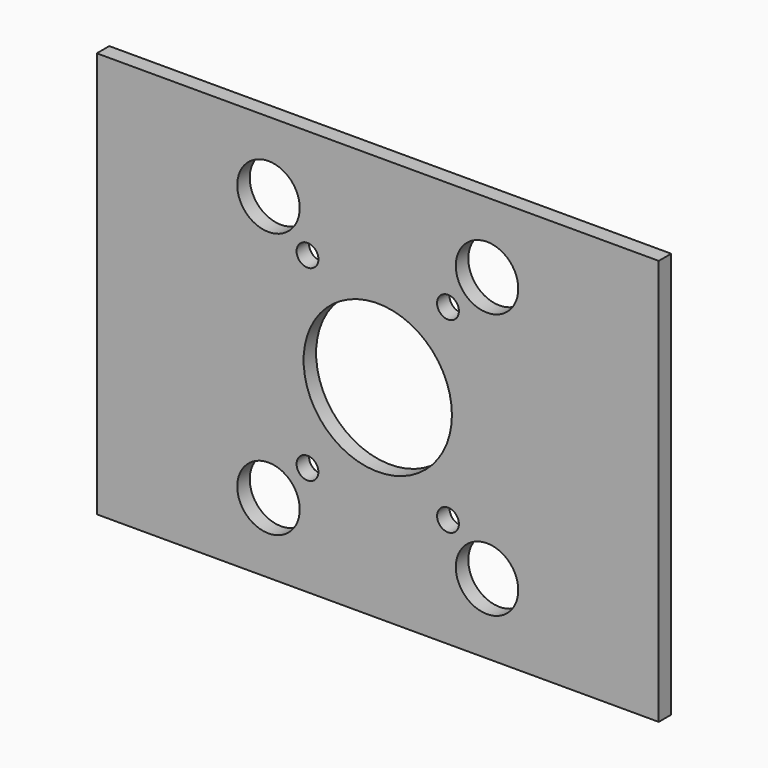
from build123d import *

# Parameters (mm, degrees)
F0_W     = 360
F0_H     = 260
F0_R     = 20
F0_R_2   = 7
F0_R_3   = 47.5
F1_DEPTH = 10


with BuildPart() as f1:
    # F0 (on Front) → F1 (new body)
    with BuildSketch(Plane.XZ):
        Rectangle(F0_W, F0_H)
        with Locations((-70, -85)):
            Circle(F0_R, mode=Mode.SUBTRACT)
        with Locations((-45, -60)):
            Circle(F0_R_2, mode=Mode.SUBTRACT)
        with Locations((70, -85)):
            Circle(F0_R, mode=Mode.SUBTRACT)
        with Locations((45, -60)):
            Circle(F0_R_2, mode=Mode.SUBTRACT)
        with Locations((-45, 60)):
            Circle(F0_R_2, mode=Mode.SUBTRACT)
        with Locations((-70, 85)):
            Circle(F0_R, mode=Mode.SUBTRACT)
        Circle(F0_R_3, mode=Mode.SUBTRACT)
        with Locations((45, 60)):
            Circle(F0_R_2, mode=Mode.SUBTRACT)
        with Locations((70, 85)):
            Circle(F0_R, mode=Mode.SUBTRACT)
    extrude(amount=F1_DEPTH)


solid = f1.part
